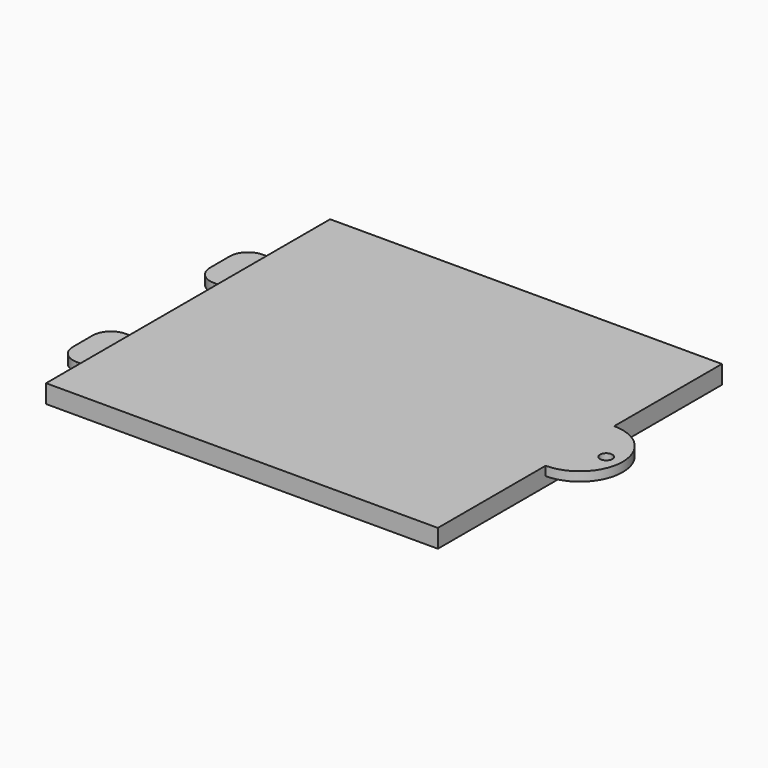
from build123d import *

# Parameters (mm, degrees)
PAD_DEPTH       = 3
POCKET_DEPTH    = 1.5
SKETCH003_R     = 1
POCKET001_DEPTH = 3.001
SKETCH004_W     = 10
SKETCH004_H     = 1.5
PAD001_DEPTH    = 6
FILLET_R        = 3


with BuildPart() as part:
    # Sketch → Pad (new body)
    with BuildSketch(Plane.XY):
        with BuildLine():
            Line((0, 0), (64, 0))
            Line((64, 0), (64, -22))
            ThreePointArc((64, -36), (71, -29), (64, -22))
            Line((64, -36), (64, -58))
            Line((64, -58), (0, -58))
            Line((0, -58), (0, 0))
        make_face()
    extrude(amount=PAD_DEPTH)

    # Sketch001 (on Face7 of Pad) → Pocket (cut)
    with BuildSketch(Plane(origin=(0, 0, 0), x_dir=(1, 0, 0), z_dir=(0, 0, -1))):
        with BuildLine():
            ThreePointArc((64, 22), (71, 29), (64, 36))
            Line((64, 36), (64, 22))
        make_face()
    extrude(amount=-POCKET_DEPTH, mode=Mode.SUBTRACT)

    # Sketch003 → Pocket001 (cut, through all)
    with BuildSketch(Plane.XY.offset(3)):
        with Locations((68.5, -29.25)):
            Circle(SKETCH003_R)
    extrude(amount=-POCKET001_DEPTH, mode=Mode.SUBTRACT)

    # Sketch004 (on Face9 of Pocket001) → Pad001 (join)
    with BuildSketch(Plane(origin=(0, 0, 0), x_dir=(0, -1, 0), z_dir=(-1, 0, 0))):
        with Locations((43, 0.25)):
            Rectangle(SKETCH004_W, SKETCH004_H)
        with Locations((15, 0.25)):
            Rectangle(SKETCH004_W, SKETCH004_H)
    extrude(amount=PAD001_DEPTH)

    # Fillet
    fillet_edges = [part.edges().sort_by_distance(p)[0] for p in [
        (-6, -48, 0.25),
        (-6, -38, 0.25),
        (-6, -20, 0.25),
        (-6, -10, 0.25),
    ]]
    fillet(fillet_edges, radius=FILLET_R)


solid = part.part
